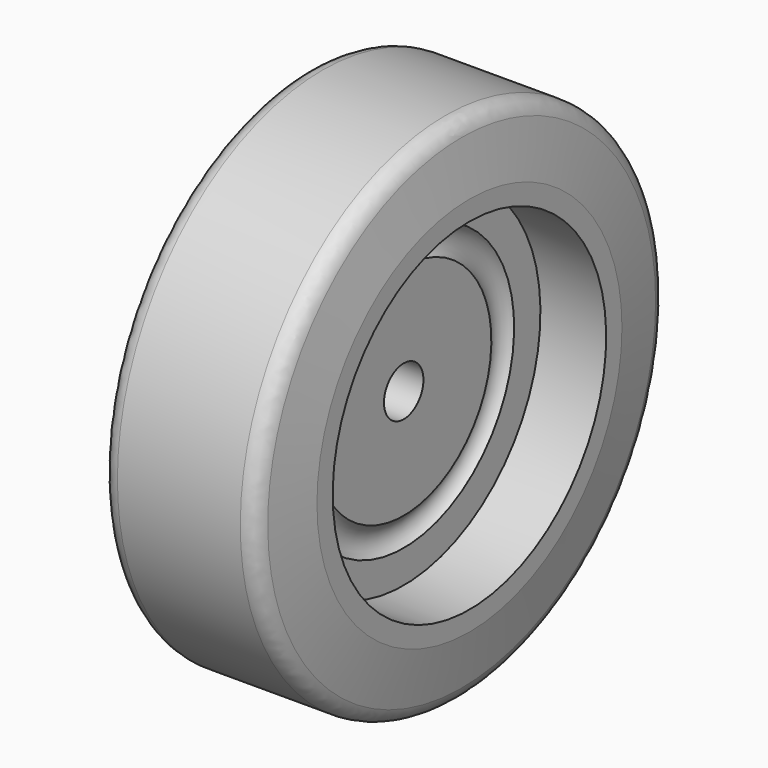
from build123d import *

# Parameters (mm, degrees)
F3_R = 3.175


with BuildPart() as f2:
    # F1 (on Front) → F2 (revolve)
    with BuildSketch(Plane.XZ):
        Polygon((14.605, 49.53), (0, 49.53), (-14.605, 49.53), (-16.51, 36.83), (0, 36.83), (16.51, 36.83), align=None)
    revolve(axis=Axis((0.053234, 0, 0), (-1, 0, 0)))

    # F3
    f3_edges = [f2.edges().sort_by_distance(p)[0] for p in [
        (-14.605, 0, -49.53),
        (14.605, 0, -49.53),
    ]]
    fillet(f3_edges, radius=F3_R)


with BuildPart() as f5:
    # F4 (on Front) → F5 (revolve)
    with BuildSketch(Plane.XZ):
        with BuildLine():
            Line((16.51, 36.83), (0, 36.83))
            Line((0, 36.83), (-16.51, 36.83))
            Line((-16.51, 36.83), (-16.51, 33.02))
            Line((-16.51, 33.02), (-3.81, 33.02))
            Line((-3.81, 33.02), (-3.81, 26.67))
            ThreePointArc((-3.81, 26.67), (-2.2225, 23.920369), (-3.81, 21.170739))
            Line((-3.81, 21.170739), (-3.81, 4.7625))
            Line((-3.81, 4.7625), (0, 4.7625))
            Line((0, 4.7625), (3.81, 4.7625))
            Line((3.81, 4.7625), (3.81, 21.170739))
            ThreePointArc((3.81, 21.170739), (2.2225, 23.920369), (3.81, 26.67))
            Line((3.81, 26.67), (3.81, 33.02))
            Line((3.81, 33.02), (16.51, 33.02))
            Line((16.51, 33.02), (16.51, 36.83))
        make_face()
    revolve(axis=Axis((0.053234, 0, 0), (-1, 0, 0)))


with BuildPart() as f7:
    # F6 (on Front) → F7 (revolve)
    with BuildSketch(Plane.XZ):
        with BuildLine():
            Line((-6.985, 26.67), (-6.985, 30.988))
            Line((-6.985, 30.988), (-15.439775, 30.988))
            Line((-15.439775, 30.988), (-20.32, 4.7625))
            Line((-20.32, 4.7625), (-6.985, 4.7625))
            Line((-6.985, 4.7625), (-6.985, 21.170739))
            ThreePointArc((-6.985, 21.170739), (-8.5725, 23.920369), (-6.985, 26.67))
        make_face()
    revolve(axis=Axis((0.053234, 0, 0), (-1, 0, 0)))


solid = Compound([f2.part, f5.part, f7.part])
